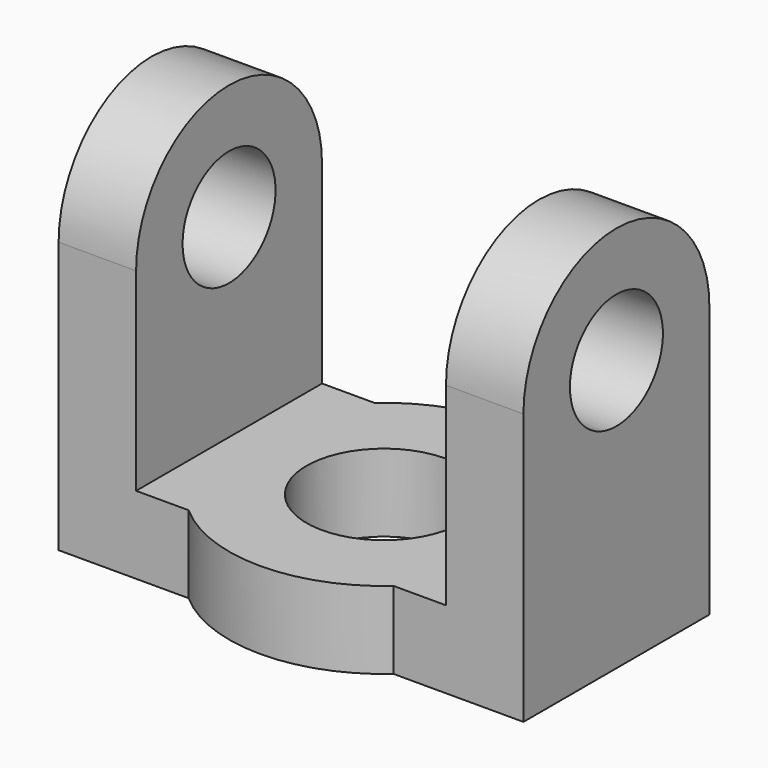
from build123d import *

# Parameters (mm, degrees)
F0_R     = 10
F1_DEPTH = 10
F2_DEPTH = 50
F3_R     = 7.5
F4_DEPTH = 60.001


with BuildPart() as f1:
    # F0 (on Top) → F1 (new body)
    with BuildSketch(Plane.XY):
        Polygon((0, 30), (0, 0), (10, 0), (10, 15), (10, 30), align=None)
        with BuildLine():
            Line((10, 15), (10, 0))
            Line((10, 0), (16.7712434447, 0))
            ThreePointArc((16.7712434447, 0), (11.7712434447, 6.7712434447), (10, 15))
        make_face()
        with BuildLine():
            ThreePointArc((10, 15), (11.7712434447, 6.7712434447), (16.7712434447, 0))
            Line((16.7712434447, 0), (43.2287565553, 0))
            ThreePointArc((43.2287565553, 0), (48.2287565553, 6.7712434447), (50, 15))
            ThreePointArc((50, 15), (48.2287565553, 23.2287565553), (43.2287565553, 30))
            Line((43.2287565553, 30), (16.7712434447, 30))
            ThreePointArc((16.7712434447, 30), (11.7712434447, 23.2287565553), (10, 15))
        make_face()
        with Locations((30, 15)):
            Circle(F0_R, mode=Mode.SUBTRACT)
        with BuildLine():
            Line((43.2287565553, 0), (16.7712434447, 0))
            ThreePointArc((16.7712434447, 0), (30, -5), (43.2287565553, 0))
        make_face()
        with BuildLine():
            Line((10, 30), (10, 15))
            ThreePointArc((10, 15), (11.7712434447, 23.2287565553), (16.7712434447, 30))
            Line((16.7712434447, 30), (10, 30))
        make_face()
        with BuildLine():
            ThreePointArc((50, 15), (48.2287565553, 6.7712434447), (43.2287565553, 0))
            Line((43.2287565553, 0), (50, 0))
            Line((50, 0), (50, 15))
        make_face()
        with BuildLine():
            ThreePointArc((43.2287565553, 30), (30, 35), (16.7712434447, 30))
            Line((16.7712434447, 30), (43.2287565553, 30))
        make_face()
        Polygon((50, 15), (50, 0), (60, 0), (60, 30), (50, 30), align=None)
        with BuildLine():
            ThreePointArc((43.2287565553, 30), (48.2287565553, 23.2287565553), (50, 15))
            Line((50, 15), (50, 30))
            Line((50, 30), (43.2287565553, 30))
        make_face()
    extrude(amount=F1_DEPTH)

    # F0 (on Top) → F2 (join)
    with BuildSketch(Plane.XY):
        Polygon((0, 30), (0, 0), (10, 0), (10, 15), (10, 30), align=None)
        Polygon((50, 15), (50, 0), (60, 0), (60, 30), (50, 30), align=None)
    extrude(amount=F2_DEPTH)

    # F3 (on face) → F4 (cut, through all)
    with BuildSketch(Plane(origin=(0, 0, 0), x_dir=(0, -1, 0), z_dir=(-1, 0, 0))):
        with Locations((-15, 35)):
            Circle(F3_R)
        with BuildLine():
            Line((-30, 50), (-30, 35))
            ThreePointArc((-30, 35), (-25.6066017178, 45.6066017178), (-15, 50))
            Line((-15, 50), (-30, 50))
        make_face()
        with BuildLine():
            Line((0, 50), (-15, 50))
            ThreePointArc((-15, 50), (-4.3933982822, 45.6066017178), (0, 35))
            Line((0, 35), (0, 50))
        make_face()
    extrude(amount=-F4_DEPTH, mode=Mode.SUBTRACT)


solid = f1.part
